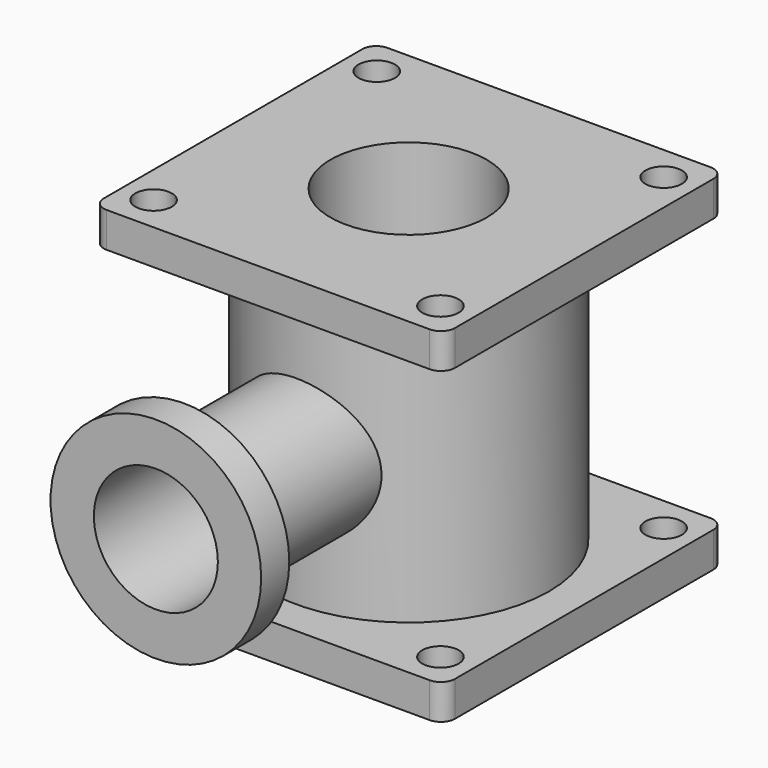
from build123d import *

# Parameters (mm, degrees)
F1_DEPTH  = 12.7
F2_R      = 50.8
F3_DEPTH  = 99.06
F5_DEPTH  = 12.7
F6_R      = 25.4
F7_DEPTH  = 101.6
F8_R      = 38.1
F9_DEPTH  = 12.7
F10_R     = 22.429205
F11_DEPTH = 101.6
F12_R     = 6.592238
F13_DEPTH = 124.461
F14_R     = 5.08
F15_R     = 28.288722
F16_DEPTH = 124.461


with BuildPart() as f1:
    # F0 (on Top) → F1 (new body)
    with BuildSketch(Plane.XY):
        Polygon((-63.5, 63.5), (-63.5, 0), (-63.5, -63.5), (0, -63.5), (63.5, -63.5), (63.5, 0), (63.5, 63.5), (0, 63.5), align=None)
    extrude(amount=F1_DEPTH)

    # F2 (on face) → F3 (join)
    with BuildSketch(Plane.XY.offset(12.7)):
        Circle(F2_R)
    extrude(amount=F3_DEPTH)

    # F4 (on face) → F5 (join)
    with BuildSketch(Plane.XY.offset(111.76)):
        Polygon((-63.5, 63.5), (-63.5, 0), (-63.5, -63.5), (0, -63.5), (63.5, -63.5), (63.5, 0), (63.5, 63.5), (0, 63.5), align=None)
    extrude(amount=F5_DEPTH)

    # F6 (on Front) → F7 (join)
    with BuildSketch(Plane.XZ):
        with Locations((0, 59.307985)):
            Circle(F6_R)
    extrude(amount=F7_DEPTH)

    # F8 (on face) → F9 (join)
    with BuildSketch(Plane.XZ.offset(101.6)):
        with Locations((0, 59.307985)):
            Circle(F8_R)
    extrude(amount=F9_DEPTH)

    # F10 (on face) → F11 (cut)
    with BuildSketch(Plane.XZ.offset(114.3)):
        with Locations((0, 59.307985)):
            Circle(F10_R)
    extrude(amount=-F11_DEPTH, mode=Mode.SUBTRACT)

    # F12 (on face) → F13 (cut, through all)
    with BuildSketch(Plane.XY.offset(124.46)):
        with Locations((-51.887672, 50.463643)):
            Circle(F12_R)
        with Locations((51.887672, 50.463643)):
            Circle(F12_R)
        with Locations((51.887672, -50.463643)):
            Circle(F12_R)
        with Locations((-51.887672, -50.463643)):
            Circle(F12_R)
    extrude(amount=-F13_DEPTH, mode=Mode.SUBTRACT)

    # F14
    f14_edges = [f1.edges().sort_by_distance(p)[0] for p in [
        (63.5, -63.5, 118.11),
        (63.5, 63.5, 118.11),
        (63.5, 63.5, 6.35),
        (63.5, -63.5, 6.35),
        (-63.5, -63.5, 118.11),
        (-63.5, -63.5, 6.35),
        (-63.5, 63.5, 118.11),
        (-63.5, 63.5, 6.35),
    ]]
    fillet(f14_edges, radius=F14_R)

    # F15 (on face) → F16 (cut, through all)
    with BuildSketch(Plane.XY.offset(124.46)):
        Circle(F15_R)
    extrude(amount=-F16_DEPTH, mode=Mode.SUBTRACT)


solid = f1.part
